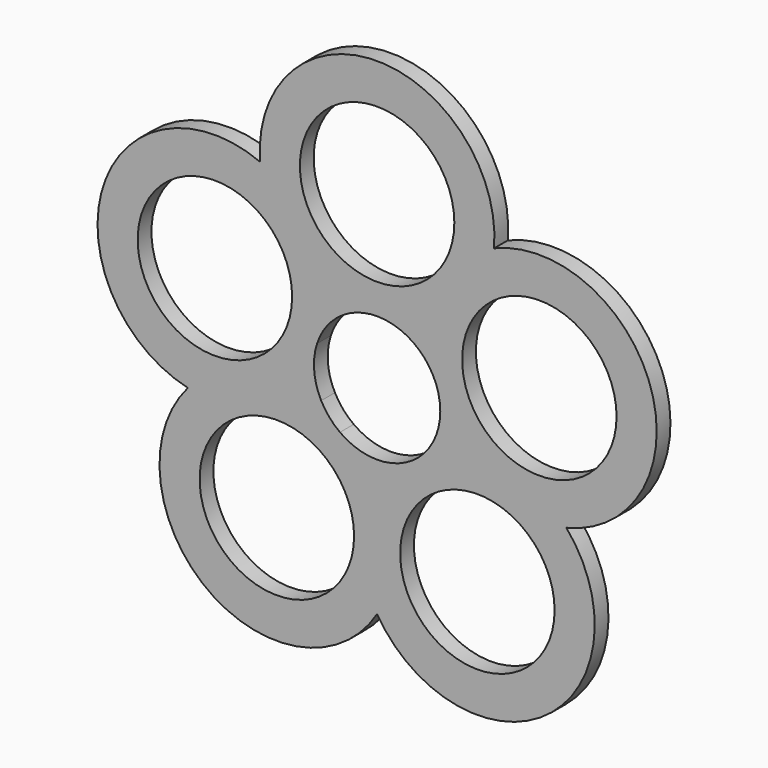
from build123d import *

# Parameters (mm, degrees)
F0_R     = 13.45
F1_DEPTH = 3


with BuildPart() as f1:
    # F0 (on Front) → F1 (new body)
    with BuildSketch(Plane.XZ):
        with BuildLine():
            ThreePointArc((32.960464, -10.709504), (47.693573, 15.496581), (20.370687, 28.037846))
            ThreePointArc((20.370687, 28.037846), (0, 50.14799), (-20.370687, 28.037846))
            ThreePointArc((-20.370687, 28.037846), (-47.693573, 15.496581), (-32.960464, -10.709504))
            ThreePointArc((-32.960464, -10.709504), (-29.476249, -40.570576), (0, -34.656683))
            ThreePointArc((0, -34.656683), (29.476249, -40.570576), (32.960464, -10.709504))
        make_face()
        with Locations((-17.462441, -24.034988)):
            Circle(F0_R, mode=Mode.SUBTRACT)
        with BuildLine():
            ThreePointArc((-4.876476, 9.860019), (5.803394, 9.34455), (11, 0))
            ThreePointArc((11, 0), (4.993895, -9.801072), (-6.465638, -8.899187))
            ThreePointArc((-6.465638, -8.899187), (-8.321652, -7.193754), (-9.740726, -5.110602))
            ThreePointArc((-9.740726, -5.110602), (-10.960741, -0.928525), (-10.461622, 3.399187))
            ThreePointArc((-10.461622, 3.399187), (-8.321652, 7.193754), (-4.876476, 9.860019))
        make_face(mode=Mode.SUBTRACT)
        with Locations((17.462441, -24.034988)):
            Circle(F0_R, mode=Mode.SUBTRACT)
        with Locations((-28.254823, 9.180549)):
            Circle(F0_R, mode=Mode.SUBTRACT)
        with Locations((0, 29.708879)):
            Circle(F0_R, mode=Mode.SUBTRACT)
        with Locations((28.254823, 9.180549)):
            Circle(F0_R, mode=Mode.SUBTRACT)
    extrude(amount=F1_DEPTH)


solid = f1.part
